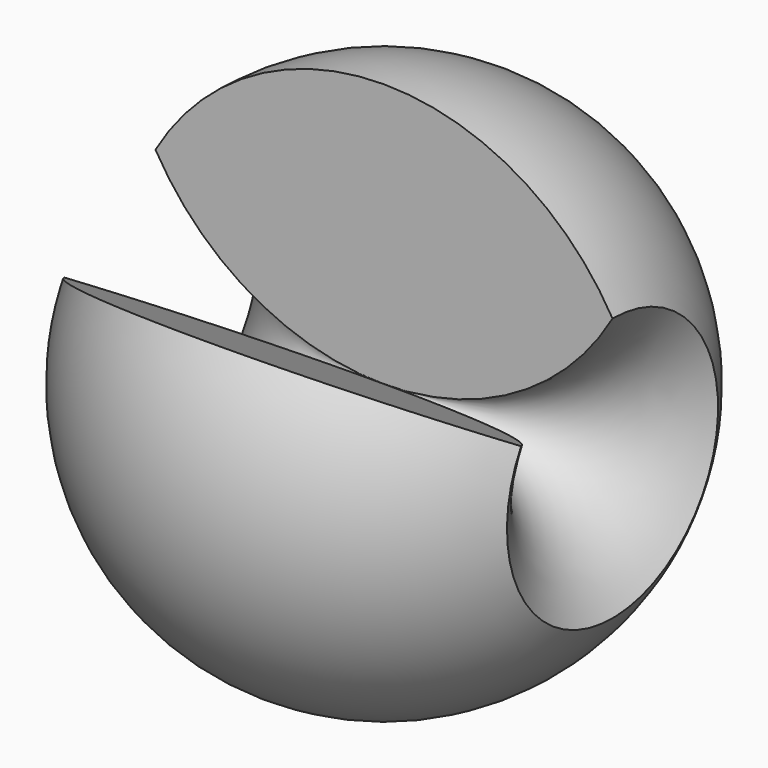
from build123d import *

# Parameters (mm, degrees)
F1_ANGLE = 300


with BuildPart() as f1:
    # F0 (on Front) → F1 (revolve)
    with BuildSketch(Plane.XZ):
        with BuildLine():
            ThreePointArc((14.937067, 8.623919), (0, 17.247839), (-14.937067, 8.623919))
            ThreePointArc((-14.937067, 8.623919), (-8.623919, 2.310772), (0, 0))
            ThreePointArc((0, 0), (8.623919, 2.310772), (14.937067, 8.623919))
        make_face()
    revolve(axis=Axis((-24.056196, 0, 0), (-1, 0, 0)), revolution_arc=F1_ANGLE)


solid = f1.part
